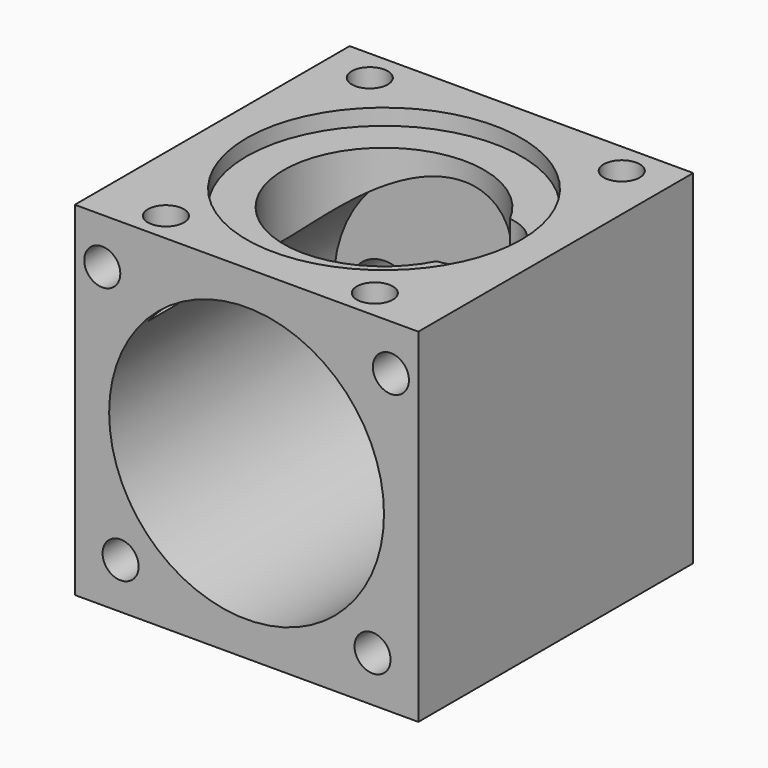
from build123d import *

# Parameters (mm, degrees)
F0_W      = 19.05
F0_H      = 19.05
F1_DEPTH  = 19.05
F2_R      = 7.62
F3_DEPTH  = 0.889
F4_R      = 0.999998
F5_DEPTH  = 4.7752
F6_R      = 7.62
F7_DEPTH  = 15.5702
F9_DEPTH  = 6.8573073039
F10_R     = 1.5875
F10_R_2   = 1.9939
F11_DEPTH = 3.4808
F12_R     = 0.999998
F13_DEPTH = 4.7752


with BuildPart() as f1:
    # F0 (on Top) → F1 (new body)
    with BuildSketch(Plane.XY):
        Rectangle(F0_W, F0_H)
    extrude(amount=F1_DEPTH)

    # F2 (on face) → F3 (cut)
    with BuildSketch(Plane.XY.offset(19.05)):
        Circle(F2_R)
        with BuildLine():
            ThreePointArc((4.9464736177, -2.544585921), (-5.5626, 0), (4.9464736177, 2.544585921))
            ThreePointArc((4.9464736177, 2.544585921), (6.5611449159, 1.7206267132), (7.1316849154, 0))
            ThreePointArc((7.1316849154, 0), (6.5611449159, -1.7206267132), (4.9464736177, -2.544585921))
        make_face(mode=Mode.SUBTRACT)
    extrude(amount=-F3_DEPTH, mode=Mode.SUBTRACT)

    # F4 (on face) → F5 (cut)
    with BuildSketch(Plane.XY.offset(19.05)):
        with Locations((-5.7912, -7.874)):
            Circle(F4_R)
        with Locations((5.7912, -7.874)):
            Circle(F4_R)
        with Locations((6.985, 7.747)):
            Circle(F4_R)
        with Locations((-6.985, 7.747)):
            Circle(F4_R)
    extrude(amount=-F5_DEPTH, mode=Mode.SUBTRACT)

    # F6 (on face) → F7 (cut)
    with BuildSketch(Plane.XZ.offset(9.525)):
        with Locations((0, 9.525)):
            Circle(F6_R)
    extrude(amount=-F7_DEPTH, mode=Mode.SUBTRACT)

    # F8 (on face) → F9 (cut, through all)
    with BuildSketch(Plane.XY.offset(19.05)):
        with BuildLine():
            ThreePointArc((4.9464736177, 2.544585921), (-5.5626, 0), (4.9464736177, -2.544585921))
            ThreePointArc((4.9464736177, -2.544585921), (6.5611449159, -1.7206267132), (7.1316849154, 0))
            ThreePointArc((7.1316849154, 0), (6.5611449159, 1.7206267132), (4.9464736177, 2.544585921))
        make_face()
    extrude(amount=-F9_DEPTH, mode=Mode.SUBTRACT)

    # F10 (on face) → F11 (cut, through all)
    with BuildSketch(Plane.XZ.offset(-6.0452)):
        with Locations((0, 9.525)):
            Circle(F10_R)
        with Locations((-4.7752, 9.525)):
            Circle(F10_R_2)
    extrude(amount=-F11_DEPTH, mode=Mode.SUBTRACT)

    # F12 (on face) → F13 (cut)
    with BuildSketch(Plane.XZ.offset(9.525)):
        with Locations((-8.001, 16.51)):
            Circle(F12_R)
        with Locations((8.001, 16.51)):
            Circle(F12_R)
        with Locations((-6.985, 2.54)):
            Circle(F12_R)
        with Locations((6.985, 2.54)):
            Circle(F12_R)
    extrude(amount=-F13_DEPTH, mode=Mode.SUBTRACT)


solid = f1.part
